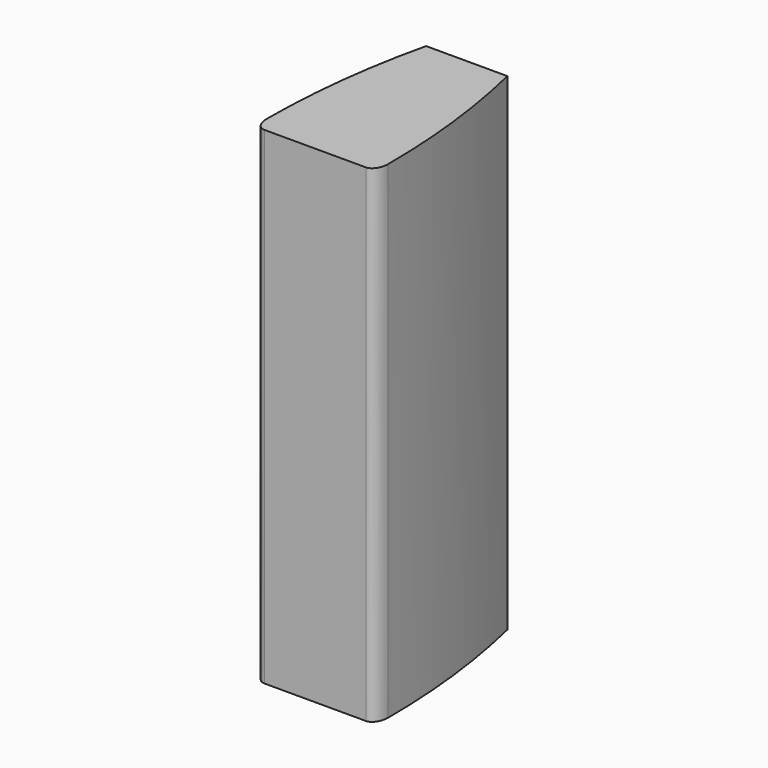
from build123d import *

# Parameters (mm, degrees)
F1_DEPTH = 914.4


with BuildPart() as f1:
    # F0 (on Top) → F1 (new body)
    with BuildSketch(Plane.XY):
        with BuildLine():
            Line((76.2, 355.6), (-76.2, 355.6))
            ThreePointArc((-76.2, 355.6), (-104.742894, 193.193469), (-114.3, 28.575002))
            add(Edge.make_bspline(
                [(-95.25, 57.15), (-114.299999, 57.15), (-114.3, 28.575002)],
                knots=[0, 0, 0, 1.570796, 1.570796, 1.570796], degree=2, weights=[1, 0.707107, 1]))
            add(Edge.make_bspline(
                [(-95.25, 0), (-76.2, 0), (-76.2, 28.575), (-76.2, 57.15), (-95.25, 57.15)],
                knots=[3.141593, 3.141593, 3.141593, 4.712389, 4.712389, 6.283185, 6.283185, 6.283185], degree=2, weights=[1, 0.707107, 1, 0.707107, 1]))
            Line((-95.25, 0), (95.25, 0))
            add(Edge.make_bspline(
                [(95.25, 57.15), (76.2, 57.15), (76.2, 28.575), (76.2, 0), (95.25, 0)],
                knots=[0, 0, 0, 1.570796, 1.570796, 3.141593, 3.141593, 3.141593], degree=2, weights=[1, 0.707107, 1, 0.707107, 1]))
            add(Edge.make_bspline(
                [(114.3, 28.575), (114.3, 57.15), (95.25, 57.15)],
                knots=[4.712389, 4.712389, 4.712389, 6.283185, 6.283185, 6.283185], degree=2, weights=[1, 0.707107, 1]))
            ThreePointArc((114.3, 28.575), (104.742894, 193.193468), (76.2, 355.6))
        make_face()
        with BuildLine():
            add(Edge.make_bspline(
                [(-95.25, 57.15), (-114.299999, 57.15), (-114.3, 28.575002)],
                knots=[0, 0, 0, 1.570796, 1.570796, 1.570796], degree=2, weights=[1, 0.707107, 1]))
            add(Edge.make_bspline(
                [(-114.3, 28.575002), (-114.300001, 0), (-95.25, 0)],
                knots=[1.570796, 1.570796, 1.570796, 3.141593, 3.141593, 3.141593], degree=2, weights=[1, 0.707107, 1]))
            add(Edge.make_bspline(
                [(-95.25, 0), (-76.2, 0), (-76.2, 28.575), (-76.2, 57.15), (-95.25, 57.15)],
                knots=[3.141593, 3.141593, 3.141593, 4.712389, 4.712389, 6.283185, 6.283185, 6.283185], degree=2, weights=[1, 0.707107, 1, 0.707107, 1]))
        make_face()
        with BuildLine():
            add(Edge.make_bspline(
                [(95.25, 0), (114.3, 0), (114.3, 28.575)],
                knots=[3.141593, 3.141593, 3.141593, 4.712389, 4.712389, 4.712389], degree=2, weights=[1, 0.707107, 1]))
            add(Edge.make_bspline(
                [(114.3, 28.575), (114.3, 57.15), (95.25, 57.15)],
                knots=[4.712389, 4.712389, 4.712389, 6.283185, 6.283185, 6.283185], degree=2, weights=[1, 0.707107, 1]))
            add(Edge.make_bspline(
                [(95.25, 57.15), (76.2, 57.15), (76.2, 28.575), (76.2, 0), (95.25, 0)],
                knots=[0, 0, 0, 1.570796, 1.570796, 3.141593, 3.141593, 3.141593], degree=2, weights=[1, 0.707107, 1, 0.707107, 1]))
        make_face()
    extrude(amount=F1_DEPTH)


solid = f1.part
